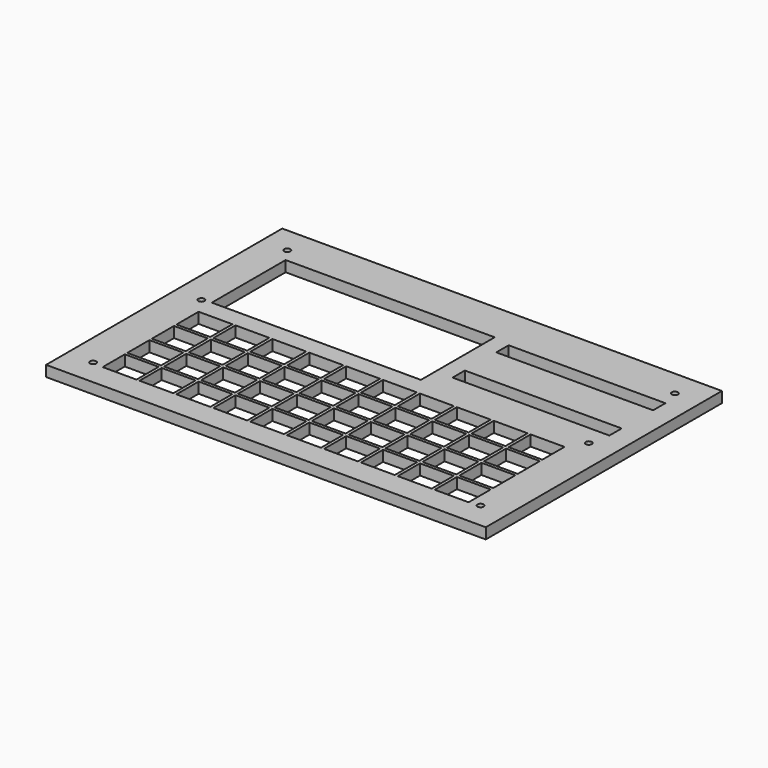
from build123d import *

# Parameters (mm, degrees)
SKETCH006_W     = 143
SKETCH006_H     = 96
PAD003_DEPTH    = 3.5
SKETCH007_W     = 68
SKETCH007_H     = 30
POCKET003_DEPTH = 3.501
SKETCH008_W     = 11
SKETCH008_H     = 9
POCKET004_DEPTH = 3.501
SKETCH009_W     = 51
SKETCH009_H     = 5
POCKET005_DEPTH = 3.501
SKETCH010_R     = 1
POCKET006_DEPTH = 3.501


with BuildPart() as part:
    # Sketch006 → Pad003 (new body)
    with BuildSketch(Plane.XY):
        with Locations((71.5, 48)):
            Rectangle(SKETCH006_W, SKETCH006_H)
    extrude(amount=PAD003_DEPTH)

    # Sketch007 (on Face6 of Pad003) → Pocket003 (cut, through all)
    with BuildSketch(Plane.XY.offset(3.5)):
        with Locations((45.5, 68)):
            Rectangle(SKETCH007_W, SKETCH007_H)
    extrude(amount=-POCKET003_DEPTH, mode=Mode.SUBTRACT)

    # Sketch008 (on Face5 of Pocket003) → Pocket004 (cut, through all)
    with BuildSketch(Plane.XY.offset(3.5)):
        with Locations((17.5, 42.5)):
            Rectangle(SKETCH008_W, SKETCH008_H)
        with Locations((29.5, 42.5)):
            Rectangle(SKETCH008_W, SKETCH008_H)
        with Locations((41.5, 42.5)):
            Rectangle(SKETCH008_W, SKETCH008_H)
        with Locations((53.5, 42.5)):
            Rectangle(SKETCH008_W, SKETCH008_H)
        with Locations((65.5, 42.5)):
            Rectangle(SKETCH008_W, SKETCH008_H)
        with Locations((77.5, 42.5)):
            Rectangle(SKETCH008_W, SKETCH008_H)
        with Locations((89.5, 42.5)):
            Rectangle(SKETCH008_W, SKETCH008_H)
        with Locations((101.5, 42.5)):
            Rectangle(SKETCH008_W, SKETCH008_H)
        with Locations((113.5, 42.5)):
            Rectangle(SKETCH008_W, SKETCH008_H)
        with Locations((125.5, 42.5)):
            Rectangle(SKETCH008_W, SKETCH008_H)
        with Locations((17.5, 32.5)):
            Rectangle(SKETCH008_W, SKETCH008_H)
        with Locations((29.5, 32.5)):
            Rectangle(SKETCH008_W, SKETCH008_H)
        with Locations((41.5, 32.5)):
            Rectangle(SKETCH008_W, SKETCH008_H)
        with Locations((53.5, 32.5)):
            Rectangle(SKETCH008_W, SKETCH008_H)
        with Locations((65.5, 32.5)):
            Rectangle(SKETCH008_W, SKETCH008_H)
        with Locations((77.5, 32.5)):
            Rectangle(SKETCH008_W, SKETCH008_H)
        with Locations((89.5, 32.5)):
            Rectangle(SKETCH008_W, SKETCH008_H)
        with Locations((101.5, 32.5)):
            Rectangle(SKETCH008_W, SKETCH008_H)
        with Locations((113.5, 32.5)):
            Rectangle(SKETCH008_W, SKETCH008_H)
        with Locations((125.5, 32.5)):
            Rectangle(SKETCH008_W, SKETCH008_H)
        with Locations((17.5, 22.5)):
            Rectangle(SKETCH008_W, SKETCH008_H)
        with Locations((29.5, 22.5)):
            Rectangle(SKETCH008_W, SKETCH008_H)
        with Locations((41.5, 22.5)):
            Rectangle(SKETCH008_W, SKETCH008_H)
        with Locations((53.5, 22.5)):
            Rectangle(SKETCH008_W, SKETCH008_H)
        with Locations((65.5, 22.5)):
            Rectangle(SKETCH008_W, SKETCH008_H)
        with Locations((77.5, 22.5)):
            Rectangle(SKETCH008_W, SKETCH008_H)
        with Locations((89.5, 22.5)):
            Rectangle(SKETCH008_W, SKETCH008_H)
        with Locations((101.5, 22.5)):
            Rectangle(SKETCH008_W, SKETCH008_H)
        with Locations((113.5, 22.5)):
            Rectangle(SKETCH008_W, SKETCH008_H)
        with Locations((125.5, 22.5)):
            Rectangle(SKETCH008_W, SKETCH008_H)
        with Locations((17.5, 12.5)):
            Rectangle(SKETCH008_W, SKETCH008_H)
        with Locations((29.5, 12.5)):
            Rectangle(SKETCH008_W, SKETCH008_H)
        with Locations((41.5, 12.5)):
            Rectangle(SKETCH008_W, SKETCH008_H)
        with Locations((53.5, 12.5)):
            Rectangle(SKETCH008_W, SKETCH008_H)
        with Locations((65.5, 12.5)):
            Rectangle(SKETCH008_W, SKETCH008_H)
        with Locations((77.5, 12.5)):
            Rectangle(SKETCH008_W, SKETCH008_H)
        with Locations((89.5, 12.5)):
            Rectangle(SKETCH008_W, SKETCH008_H)
        with Locations((101.5, 12.5)):
            Rectangle(SKETCH008_W, SKETCH008_H)
        with Locations((113.5, 12.5)):
            Rectangle(SKETCH008_W, SKETCH008_H)
        with Locations((125.5, 12.5)):
            Rectangle(SKETCH008_W, SKETCH008_H)
    extrude(amount=-POCKET004_DEPTH, mode=Mode.SUBTRACT)

    # Sketch009 (on Face5 of Pocket004) → Pocket005 (cut, through all)
    with BuildSketch(Plane.XY.offset(3.5)):
        with Locations((110.5, 79.28)):
            Rectangle(SKETCH009_W, SKETCH009_H)
        with Locations((110.5, 61.5)):
            Rectangle(SKETCH009_W, SKETCH009_H)
    extrude(amount=-POCKET005_DEPTH, mode=Mode.SUBTRACT)

    # Sketch010 (on Face5 of Pocket005) → Pocket006 (cut, through all)
    with BuildSketch(Plane.XY.offset(3.5)):
        with Locations((8.5, 87.5)):
            Circle(SKETCH010_R)
        with Locations((134.5, 87.5)):
            Circle(SKETCH010_R)
        with Locations((8.5, 52.5)):
            Circle(SKETCH010_R)
        with Locations((134.5, 52.5)):
            Circle(SKETCH010_R)
        with Locations((8.5, 8.5)):
            Circle(SKETCH010_R)
        with Locations((134.5, 8.5)):
            Circle(SKETCH010_R)
    extrude(amount=-POCKET006_DEPTH, mode=Mode.SUBTRACT)


solid = part.part
